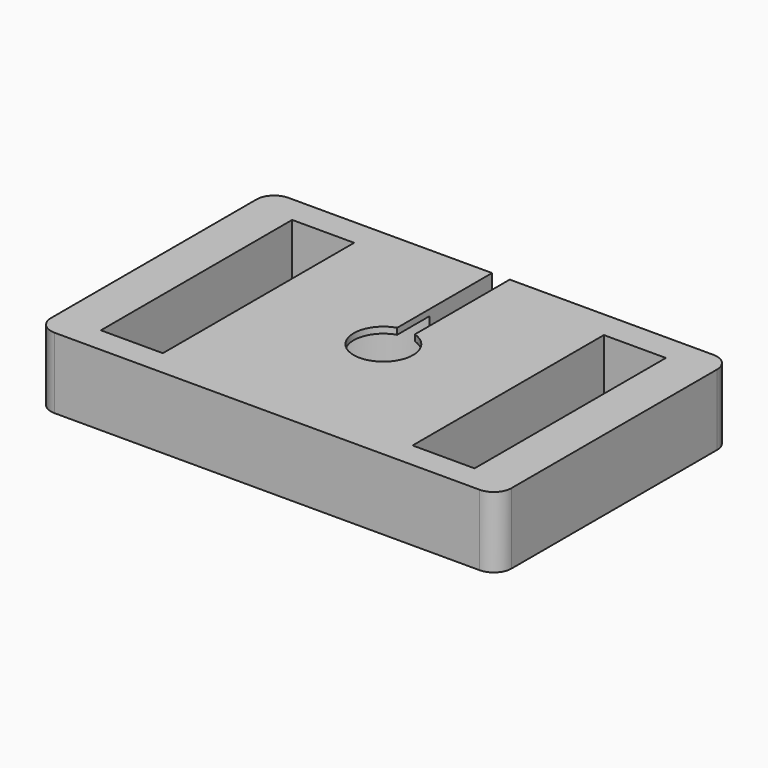
from build123d import *

# Parameters (mm, degrees)
F0_W      = 52
F0_H      = 33
F1_DEPTH  = 8
F2_R      = 7.85
F3_DEPTH  = 7.3
F4_R      = 3.35
F5_DEPTH  = 10
F6_R      = 2
F7_W      = 2
F7_H      = 22.600369
F8_DEPTH  = 18
F9_W      = 7
F9_H      = 27
F10_DEPTH = 8.001


with BuildPart() as f1:
    # F0 (on Top) → F1 (new body)
    with BuildSketch(Plane.XY):
        with Locations((0, 0.089891)):
            Rectangle(F0_W, F0_H)
    extrude(amount=F1_DEPTH)

    # F2 (on face) → F3 (cut)
    with BuildSketch(Plane(origin=(0, 0, 0), x_dir=(1, 0, 0), z_dir=(0, 0, -1))):
        Circle(F2_R)
    extrude(amount=-F3_DEPTH, mode=Mode.SUBTRACT)

    # F4 (on face) → F5 (cut)
    with BuildSketch(Plane.XY.offset(8)):
        Circle(F4_R)
    extrude(amount=-F5_DEPTH, mode=Mode.SUBTRACT)

    # F6
    f6_edges = [f1.edges().sort_by_distance(p)[0] for p in [
        (26, -16.410109, 4),
        (26, 16.589891, 4),
        (-26, 16.589891, 4),
        (-26, -16.410109, 4),
    ]]
    fillet(f6_edges, radius=F6_R)

    # F7 (on Top) → F8 (cut)
    with BuildSketch(Plane.XY):
        with Locations((0, 11.300185)):
            Rectangle(F7_W, F7_H)
    extrude(amount=F8_DEPTH, mode=Mode.SUBTRACT)

    # F9 (on face) → F10 (cut, through all)
    with BuildSketch(Plane.XY.offset(8)):
        with Locations((-17.6, 0)):
            Rectangle(F9_W, F9_H)
        with Locations((17.6, 0)):
            Rectangle(F9_W, F9_H)
    extrude(amount=-F10_DEPTH, mode=Mode.SUBTRACT)


solid = f1.part
